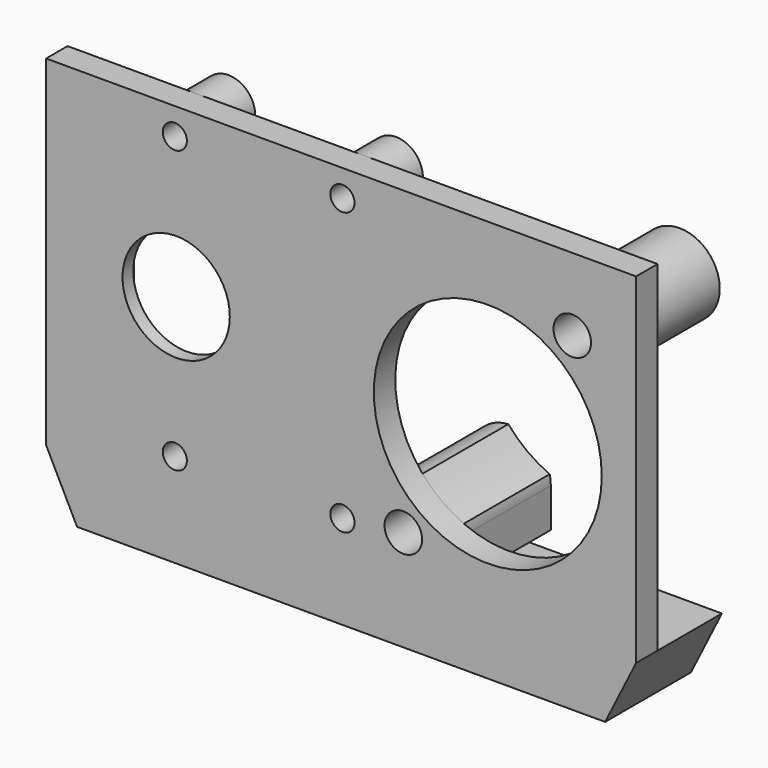
from build123d import *

# Parameters (mm, degrees)
F1_R      = 4
F1_R_2    = 8.5
F2_DEPTH  = 2
F4_DEPTH  = 6
F5_R      = 0.8
F6_DEPTH  = 4.618034
F8_DEPTH  = 8
F9_R      = 1.4
F10_DEPTH = 10
F11_R     = 2
F12_DEPTH = 3
F13_W     = 9.5
F13_H     = 9.5
F13_R     = 4
F14_DEPTH = 1
F15_R     = 0.9
F16_DEPTH = 5


with BuildPart() as f2:
    # F1 (on Front) → F2 (new body)
    with BuildSketch(Plane.XZ):
        Polygon((-22, 25.5), (-22, 0.118034), (-19.690983, -4.5), (19.690983, -4.5), (22, 0.118034), (22, 25.5), align=None)
        with Locations((-12.3, 13)):
            Circle(F1_R, mode=Mode.SUBTRACT)
        with Locations((10.94, 11.55)):
            Circle(F1_R_2, mode=Mode.SUBTRACT)
    extrude(amount=F2_DEPTH)

    # F3 (on face) → F4 (join)
    with BuildSketch(Plane(origin=(0, 0, 0), x_dir=(-1, 0, 0), z_dir=(0, 1, 0))):
        Polygon((22, 0.118034), (-22, 0.118034), (-19.690983, -4.5), (19.690983, -4.5), align=None)
    extrude(amount=F4_DEPTH)

    # F5 (on face) → F6 (cut, through all)
    with BuildSketch(Plane(origin=(0, 0, -4.5), x_dir=(1, 0, 0), z_dir=(0, 0, -1))):
        with Locations((-17, -1)):
            Circle(F5_R)
        with Locations((17, -1)):
            Circle(F5_R)
    extrude(amount=-F6_DEPTH, mode=Mode.SUBTRACT)

    # F7 (on face) → F8 (join)
    with BuildSketch(Plane(origin=(0, 0, 0), x_dir=(-1, 0, 0), z_dir=(0, 1, 0))):
        with BuildLine():
            ThreePointArc((-17.408219, 17.06472), (-15.997514, 18.381658), (-14.326099, 19.346431))
            ThreePointArc((-14.326099, 19.346431), (-19.025005, 22.471173), (-17.408219, 17.06472))
        make_face()
        with BuildLine():
            ThreePointArc((-4.471781, 6.03528), (-5.882486, 4.718342), (-7.553901, 3.753569))
            ThreePointArc((-7.553901, 3.753569), (-7.618397, 3.399372), (-7.64, 3.04))
            Line((-7.64, 3.04), (-7.64, 0.118034))
            Line((-7.64, 0.118034), (-2.4, 0.118034))
            Line((-2.4, 0.118034), (-2.4, 5.035595))
            ThreePointArc((-2.4, 5.035595), (-3.336266, 5.741903), (-4.471781, 6.03528))
        make_face()
    extrude(amount=F8_DEPTH)

    # F9 (on face) → F10 (cut, through all)
    with BuildSketch(Plane(origin=(0, 8, 0), x_dir=(-1, 0, 0), z_dir=(0, 1, 0))):
        with Locations((-17.24, 20.06)):
            Circle(F9_R)
        with Locations((-4.64, 3.04)):
            Circle(F9_R)
    extrude(amount=-F10_DEPTH, mode=Mode.SUBTRACT)

    # F11 (on face) → F12 (join)
    with BuildSketch(Plane(origin=(0, 0, 0), x_dir=(-1, 0, 0), z_dir=(0, 1, 0))):
        with Locations((-0.1, 23.5)):
            Circle(F11_R)
        with Locations((12.4, 23.5)):
            Circle(F11_R)
        with BuildLine():
            Line((1.9, 0.118034), (1.9, 2.5))
            ThreePointArc((1.9, 2.5), (1.144335, 4.065768), (-0.55163, 4.44834))
            ThreePointArc((-0.55163, 4.44834), (-1.556353, 4.488475), (-2.4, 5.035595))
            Line((-2.4, 5.035595), (-2.4, 0.118034))
            Line((-2.4, 0.118034), (1.9, 0.118034))
        make_face()
        with BuildLine():
            Line((14.4, 0.118034), (14.4, 2.5))
            ThreePointArc((14.4, 2.5), (12.4, 4.5), (10.4, 2.5))
            Line((10.4, 2.5), (10.4, 0.118034))
            Line((10.4, 0.118034), (14.4, 0.118034))
        make_face()
    extrude(amount=F12_DEPTH)

    # F13 (on face) → F14 (cut)
    with BuildSketch(Plane(origin=(0, 0, 0), x_dir=(-1, 0, 0), z_dir=(0, 1, 0))):
        with Locations((12.3, 13)):
            Rectangle(F13_W, F13_H)
        with Locations((12.3, 13)):
            Circle(F13_R, mode=Mode.SUBTRACT)
    extrude(amount=-F14_DEPTH, mode=Mode.SUBTRACT)

    # F15 (on face) → F16 (cut, through all)
    with BuildSketch(Plane(origin=(0, 3, 0), x_dir=(-1, 0, 0), z_dir=(0, 1, 0))):
        with Locations((-0.1, 23.5)):
            Circle(F15_R)
        with Locations((12.4, 23.5)):
            Circle(F15_R)
        with Locations((-0.1, 2.5)):
            Circle(F15_R)
        with Locations((12.4, 2.5)):
            Circle(F15_R)
    extrude(amount=-F16_DEPTH, mode=Mode.SUBTRACT)


solid = f2.part
